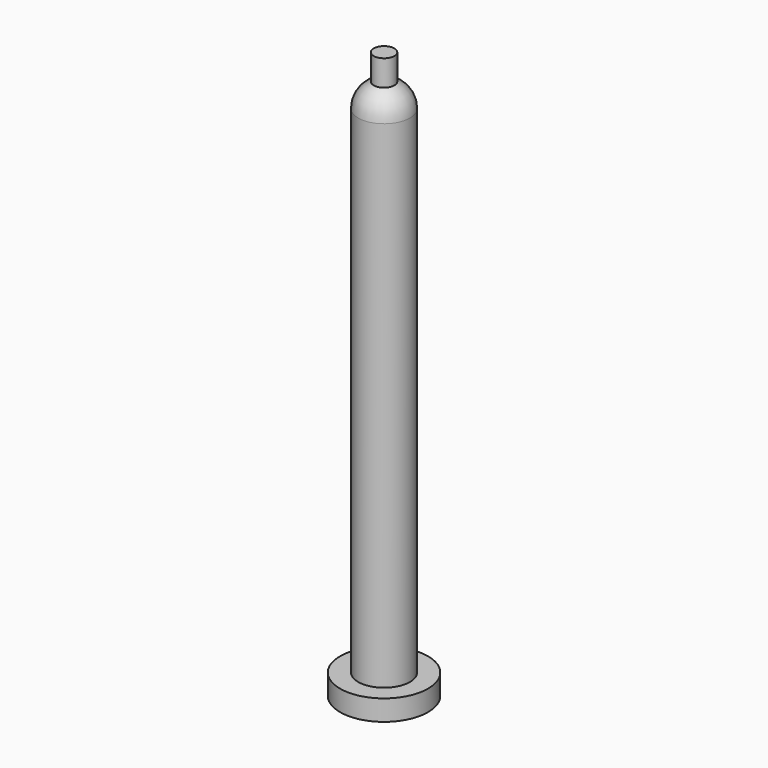
from build123d import *

# Parameters (mm, degrees)
F0_R     = 8.5
F1_DEPTH = 4
F2_R     = 5
F3_DEPTH = 100


with BuildPart() as f1:
    # F0 (on Top) → F1 (new body)
    with BuildSketch(Plane.XY):
        Circle(F0_R)
    extrude(amount=F1_DEPTH)

    # F2 (on Top) → F3 (join)
    with BuildSketch(Plane.XY):
        Circle(F2_R)
    extrude(amount=F3_DEPTH)

    # F4 (on Right) → F5 (revolve)
    with BuildSketch(Plane.YZ):
        with BuildLine():
            Line((0, 104.582576), (0, 100))
            Line((0, 100), (5, 100))
            ThreePointArc((5, 100), (4.1833, 102.738613), (2, 104.582576))
            Line((2, 104.582576), (0, 104.582576))
        make_face()
        with BuildLine():
            ThreePointArc((0, 105), (1.021548, 104.894532), (2, 104.582576))
            Line((2, 104.582576), (2, 109.582576))
            Line((2, 109.582576), (0, 109.582576))
            Line((0, 109.582576), (0, 105))
        make_face()
        with BuildLine():
            Line((0, 105), (0, 104.582576))
            Line((0, 104.582576), (2, 104.582576))
            ThreePointArc((2, 104.582576), (1.021548, 104.894532), (0, 105))
        make_face()
    revolve(axis=Axis((0, 0, 104.791288), (0, 0, -1)))


solid = f1.part
